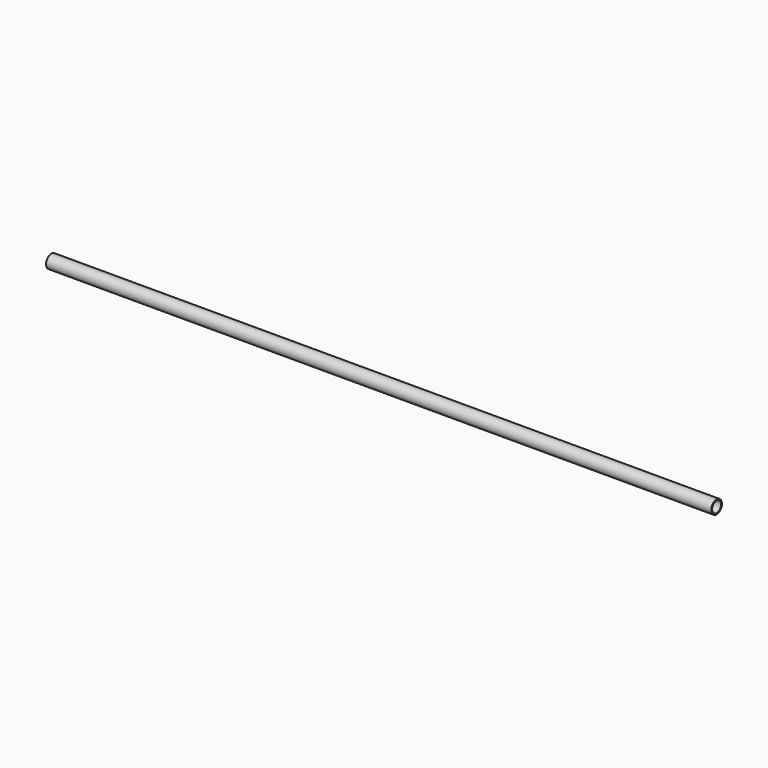
from build123d import *

# Parameters (mm, degrees)
F0_R     = 24.2
F1_DEPTH = 2416.49
F2_T     = -4


with BuildPart() as f1:
    # F0 (on Right) → F1 (new body)
    with BuildSketch(Plane.YZ):
        Circle(F0_R)
    extrude(amount=F1_DEPTH)

    # F2
    f2_openings = [f1.faces().sort_by_distance(p)[0] for p in [
        (2416.49, 0, 0),
        (0, 0, 0),
    ]]
    offset(amount=F2_T, openings=f2_openings)


solid = f1.part
